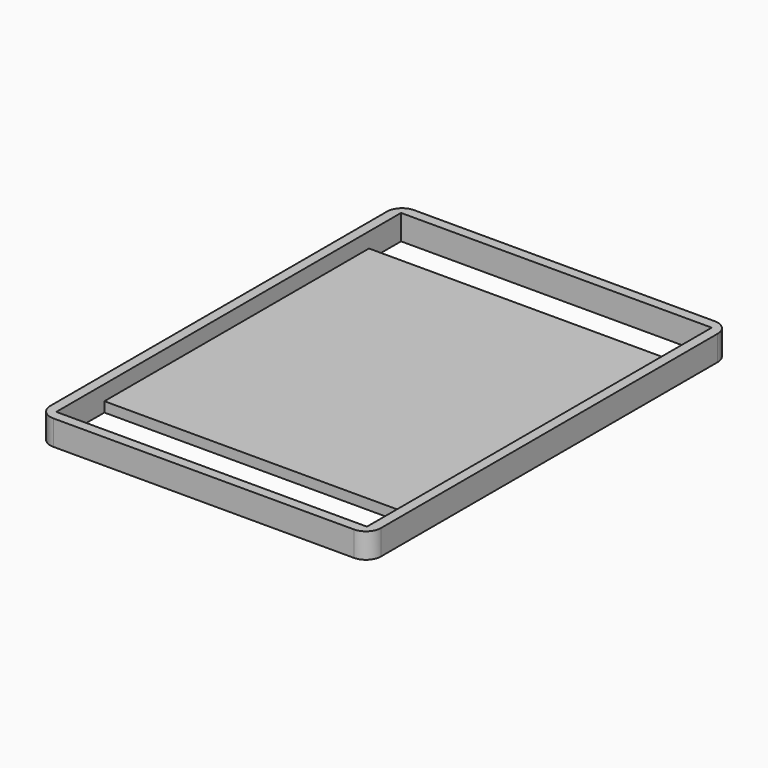
from build123d import *

# Parameters (mm, degrees)
F1_DEPTH = 5
F0_W     = 62
F0_H     = 66
F2_DEPTH = 2


with BuildPart() as f1:
    # F0 (on Top) → F1 (new body)
    with BuildSketch(Plane.XY):
        with BuildLine():
            ThreePointArc((2, -1), (1.12132, 1.12132), (-1, 2))
            Line((-1, 2), (-61, 2))
            ThreePointArc((-61, 2), (-63.12132, 1.12132), (-64, -1))
            Line((-64, -1), (-64, -85))
            ThreePointArc((-64, -85), (-63.12132, -87.12132), (-61, -88))
            Line((-61, -88), (-1, -88))
            ThreePointArc((-1, -88), (1.12132, -87.12132), (2, -85))
            Line((2, -85), (2, -1))
        make_face()
        Polygon((-62, 0), (0, 0), (0, -8), (0, -74), (0, -86), (-62, -86), (-62, -74), (-62, -8), align=None, mode=Mode.SUBTRACT)
    extrude(amount=F1_DEPTH)

    # F0 (on Top) → F2 (join)
    with BuildSketch(Plane.XY):
        with Locations((-31, -41)):
            Rectangle(F0_W, F0_H)
    extrude(amount=F2_DEPTH)


solid = f1.part
